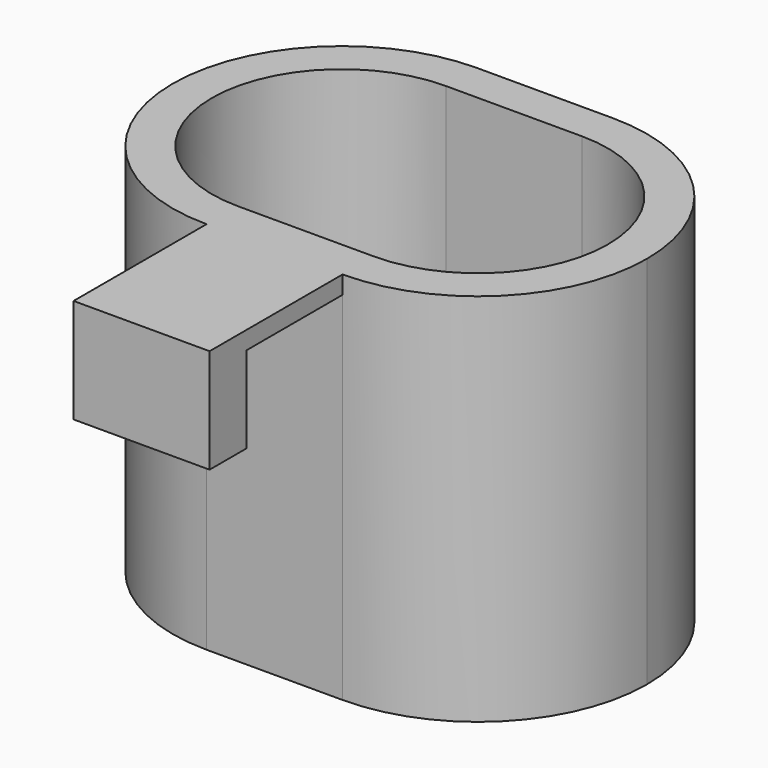
from build123d import *

# Parameters (mm, degrees)
F1_DEPTH = 144
F2_W     = 52.2887532134
F2_H     = 46.0724334717
F3_DEPTH = 6.9
F2_H_2   = 17.8235247731
F4_DEPTH = 40.1
F5_DEPTH = 25


with BuildPart() as f1:
    # F0 (on Top) → F1 (new body)
    with BuildSketch(Plane.XY):
        with BuildLine():
            ThreePointArc((-22.5135510555, -59.5102644243), (-35.3006672315, -63.6127628215), (-48.6579276621, -65))
            Line((-48.6579276621, -65), (3.6308255512, -65))
            ThreePointArc((3.6308255512, -65), (-9.7264348794, -63.6127628215), (-22.5135510555, -59.5102644243))
        make_face()
        with BuildLine():
            ThreePointArc((-22.5135510555, 59.5102644243), (-35.3006672315, 63.6127628215), (-48.6579276621, 65))
            ThreePointArc((-48.6579276621, 65), (-113.6579276621, 0), (-48.6579276621, -65))
            ThreePointArc((-48.6579276621, -65), (-35.3006672315, -63.6127628215), (-22.5135510555, -59.5102644243))
            ThreePointArc((-22.5135510555, -59.5102644243), (-30.5403925409, -55.2931085589), (-37.9022937634, -50))
            Line((-37.9022937634, -50), (-48.6579276621, -50))
            ThreePointArc((-48.6579276621, -50), (-98.6579276621, 0), (-48.6579276621, 50))
            Line((-48.6579276621, 50), (-37.9022937634, 50))
            ThreePointArc((-37.9022937634, 50), (-30.5403925409, 55.2931085589), (-22.5135510555, 59.5102644243))
        make_face()
        with BuildLine():
            Line((3.6308255512, 65), (-48.6579276621, 65))
            ThreePointArc((-48.6579276621, 65), (-35.3006672315, 63.6127628215), (-22.5135510555, 59.5102644243))
            ThreePointArc((-22.5135510555, 59.5102644243), (-9.7264348794, 63.6127628215), (3.6308255512, 65))
        make_face()
        with BuildLine():
            ThreePointArc((3.6308255512, 65), (-9.7264348794, 63.6127628215), (-22.5135510555, 59.5102644243))
            ThreePointArc((-22.5135510555, 59.5102644243), (-14.48670957, 55.2931085589), (-7.1248083475, 50))
            Line((-7.1248083475, 50), (3.6308255512, 50))
            ThreePointArc((3.6308255512, 50), (38.9861646106, 35.3553390593), (53.6308255512, 0))
            ThreePointArc((53.6308255512, 0), (38.9861646106, -35.3553390593), (3.6308255512, -50))
            Line((3.6308255512, -50), (-7.1248083475, -50))
            ThreePointArc((-7.1248083475, -50), (-14.48670957, -55.2931085589), (-22.5135510555, -59.5102644243))
            ThreePointArc((-22.5135510555, -59.5102644243), (-9.7264348794, -63.6127628215), (3.6308255512, -65))
            ThreePointArc((3.6308255512, -65), (49.5927663284, -45.9619407771), (68.6308255512, 0))
            ThreePointArc((68.6308255512, 0), (49.5927663284, 45.9619407771), (3.6308255512, 65))
        make_face()
        with BuildLine():
            ThreePointArc((-7.1248083475, 50), (-14.48670957, 55.2931085589), (-22.5135510555, 59.5102644243))
            ThreePointArc((-22.5135510555, 59.5102644243), (-30.5403925409, 55.2931085589), (-37.9022937634, 50))
            Line((-37.9022937634, 50), (-7.1248083475, 50))
        make_face()
        with BuildLine():
            ThreePointArc((-37.9022937634, -50), (-30.5403925409, -55.2931085589), (-22.5135510555, -59.5102644243))
            ThreePointArc((-22.5135510555, -59.5102644243), (-14.48670957, -55.2931085589), (-7.1248083475, -50))
            Line((-7.1248083475, -50), (-37.9022937634, -50))
        make_face()
    extrude(amount=F1_DEPTH)

    # F2 (on face) → F3 (join)
    with BuildSketch(Plane.XY.offset(144)):
        with Locations((-22.5135510555, -88.0362167358)):
            Rectangle(F2_W, F2_H)
    extrude(amount=-F3_DEPTH)

    # F2 (on face) → F4 (join)
    with BuildSketch(Plane.XY.offset(144)):
        with Locations((-22.5135510555, -119.9841958582)):
            Rectangle(F2_W, F2_H_2)
    extrude(amount=-F4_DEPTH)

    # F0 (on Top) → F5 (join)
    with BuildSketch(Plane.XY):
        with BuildLine():
            ThreePointArc((-39.0084939829, -49.060049222), (-61.3691744488, 0), (-39.0084939829, 49.060049222))
            ThreePointArc((-39.0084939829, 49.060049222), (-43.810374728, 49.7644575028), (-48.6579276621, 50))
            ThreePointArc((-48.6579276621, 50), (-98.6579276621, 0), (-48.6579276621, -50))
            ThreePointArc((-48.6579276621, -50), (-43.810374728, -49.7644575028), (-39.0084939829, -49.060049222))
        make_face()
        with BuildLine():
            ThreePointArc((-22.5135510555, 42.620084137), (-30.473662451, 46.5760936396), (-39.0084939829, 49.060049222))
            ThreePointArc((-39.0084939829, 49.060049222), (-61.3691744488, 0), (-39.0084939829, -49.060049222))
            ThreePointArc((-39.0084939829, -49.060049222), (-30.473662451, -46.5760936396), (-22.5135510555, -42.620084137))
            ThreePointArc((-22.5135510555, -42.620084137), (-46.3691744488, 0), (-22.5135510555, 42.620084137))
        make_face()
        with BuildLine():
            ThreePointArc((1.3420723379, 0), (-5.0275550398, 24.4211094104), (-22.5135510555, 42.620084137))
            ThreePointArc((-22.5135510555, 42.620084137), (-46.3691744488, 0), (-22.5135510555, -42.620084137))
            ThreePointArc((-22.5135510555, -42.620084137), (-5.0275550398, -24.4211094104), (1.3420723379, 0))
        make_face()
        with BuildLine():
            ThreePointArc((16.3420723379, 0), (10.4883138487, 26.9577839435), (-6.018608128, 49.060049222))
            ThreePointArc((-6.018608128, 49.060049222), (-14.55343966, 46.5760936396), (-22.5135510555, 42.620084137))
            ThreePointArc((-22.5135510555, 42.620084137), (-5.0275550398, 24.4211094104), (1.3420723379, 0))
            ThreePointArc((1.3420723379, 0), (-5.0275550398, -24.4211094104), (-22.5135510555, -42.620084137))
            ThreePointArc((-22.5135510555, -42.620084137), (-14.55343966, -46.5760936396), (-6.018608128, -49.060049222))
            ThreePointArc((-6.018608128, -49.060049222), (10.4883138487, -26.9577839435), (16.3420723379, 0))
        make_face()
        with BuildLine():
            ThreePointArc((3.6308255512, 50), (-1.2167273829, 49.7644575028), (-6.018608128, 49.060049222))
            ThreePointArc((-6.018608128, 49.060049222), (10.4883138487, 26.9577839435), (16.3420723379, 0))
            ThreePointArc((16.3420723379, 0), (10.4883138487, -26.9577839435), (-6.018608128, -49.060049222))
            ThreePointArc((-6.018608128, -49.060049222), (-1.2167273829, -49.7644575028), (3.6308255512, -50))
            ThreePointArc((3.6308255512, -50), (38.9861646106, -35.3553390593), (53.6308255512, 0))
            ThreePointArc((53.6308255512, 0), (38.9861646106, 35.3553390593), (3.6308255512, 50))
        make_face()
    extrude(amount=F5_DEPTH)


solid = f1.part
